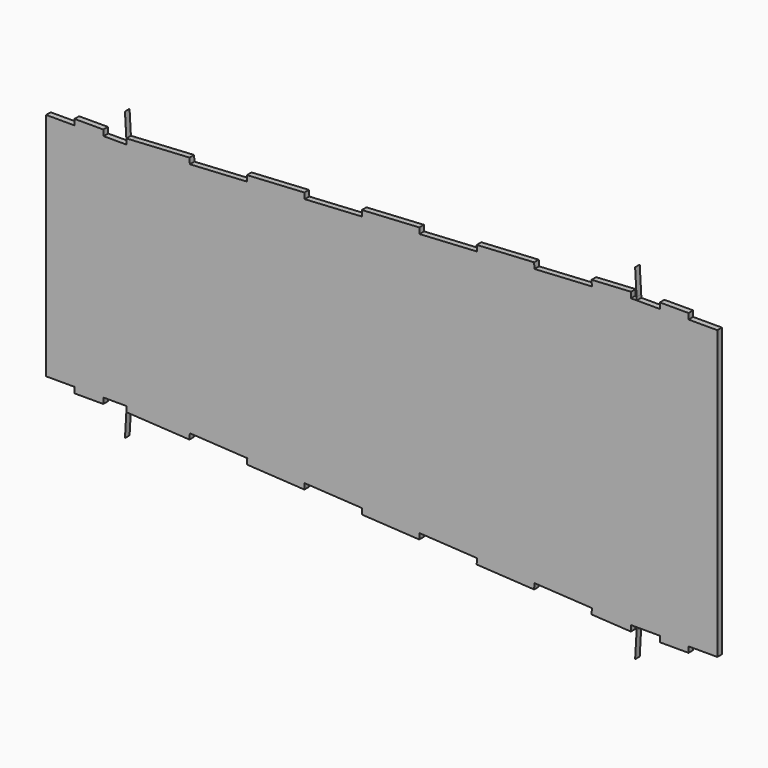
from build123d import *

# Parameters (mm, degrees)
F1_DEPTH = 3


with BuildPart() as f1:
    # F0 (on Front) → F1 (new body)
    with BuildSketch(Plane.XZ):
        Polygon((-100.051005, 61.727827), (-100.224086, 64.727896), (-130.174284, 63), (-133.164225, 62.8263), (-133, 60), (-130, 60), (-130, 30), (-133, 30), (-133, 0), (-133, -30), (-130, -30), (-130, -60), (-133, -60), (-133.164295, -62.827499), (-100.224086, -64.727896), (-100.051005, -61.727827), (-70.100807, -63.455723), (-70.273596, -66.450743), (-40.323398, -68.178639), (-40.150609, -65.183619), (-10.20041, -66.911515), (-10.3732, -69.906535), (19.576998, -71.634431), (19.749788, -68.639411), (49.699986, -70.367307), (49.527197, -73.362327), (79.477395, -75.090223), (79.650184, -72.095203), (109.600383, -73.823099), (109.427593, -76.818119), (129.918192, -78.000269), (130, -75), (133, -75), (133, -60), (130, -60), (130, -30), (133, -30), (133, 0), (133, 30), (130, 30), (130, 60), (133, 60), (133, 75), (130, 75), (130.015937, 78.005908), (109.427593, 76.818119), (109.600383, 73.823099), (79.650184, 72.095203), (79.477395, 75.090223), (49.527197, 73.362327), (49.699986, 70.367307), (19.749788, 68.639411), (19.576998, 71.634431), (-10.3732, 69.906535), (-10.20041, 66.911515), (-40.150609, 65.183619), (-40.323398, 68.178639), (-70.273596, 66.450743), (-70.100807, 63.455723), align=None)
        Polygon((132.140548, 89.975358), (133, 75), (132.913212, 76.582515), align=None)
        Polygon((132.913212, -76.582515), (133, -75), (132.140548, -89.975358), align=None)
        Polygon((-133, 60), (-133.164225, 62.8263), (-133.870123, 74.974742), (-133.337656, 65.745315), align=None)
        Polygon((-130, 60), (-133, 60), (-145, 60), (-145.173077, 63), (-160.173077, 63), (-160.173077, 60), (-175, 60), (-175, 0), (-175, -60), (-160.173077, -60), (-160.173077, -63), (-145.173077, -63), (-145, -60), (-133, -60), (-130, -60), (-130, -30), (-133, -30), (-133, 0), (-133, 30), (-130, 30), align=None)
        Polygon((-133.164295, -62.827499), (-133, -60), (-133.166168, -62.827391), align=None)
        Polygon((-133.164295, -62.827499), (-133.166168, -62.827391), (-133.337656, -65.745315), (-133.870123, -74.974742), align=None)
        Polygon((145, 75), (133, 75), (133, 60), (130, 60), (130, 30), (133, 30), (133, 0), (133, -30), (130, -30), (130, -60), (133, -60), (133, -75), (145, -75), (145, -78), (160, -78), (160, -75), (175, -75), (175, 0), (175, 75), (160, 75), (160, 78), (145, 78), align=None)
    extrude(amount=F1_DEPTH)


solid = f1.part
